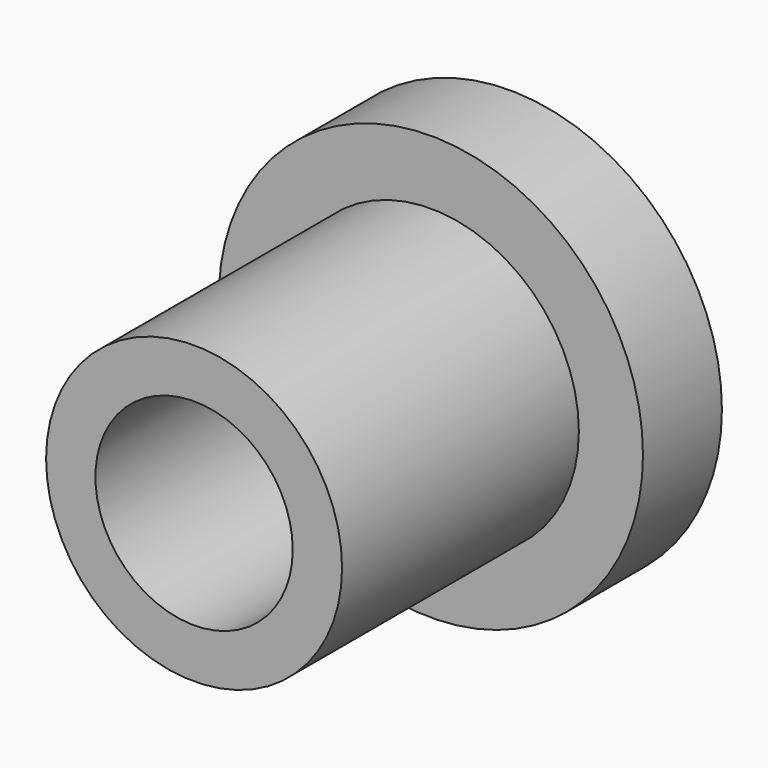
from build123d import *

# Parameters (mm, degrees)
F0_R     = 19.05
F0_R_2   = 12.7
F1_DEPTH = 50.8
F2_R     = 27.305
F3_DEPTH = 12.7
F4_DEPTH = 42.750418


with BuildPart() as f1:
    # F0 (on Front) → F1 (new body)
    with BuildSketch(Plane.XZ):
        Circle(F0_R)
        Circle(F0_R_2, mode=Mode.SUBTRACT)
    extrude(amount=F1_DEPTH)

    # F2 (on Front) → F3 (join)
    with BuildSketch(Plane.XZ):
        Circle(F2_R)
    extrude(amount=F3_DEPTH)

    # F0 (on Front) → F4 (cut)
    with BuildSketch(Plane.XZ):
        Circle(F0_R_2)
    extrude(amount=F4_DEPTH, mode=Mode.SUBTRACT)


solid = f1.part
